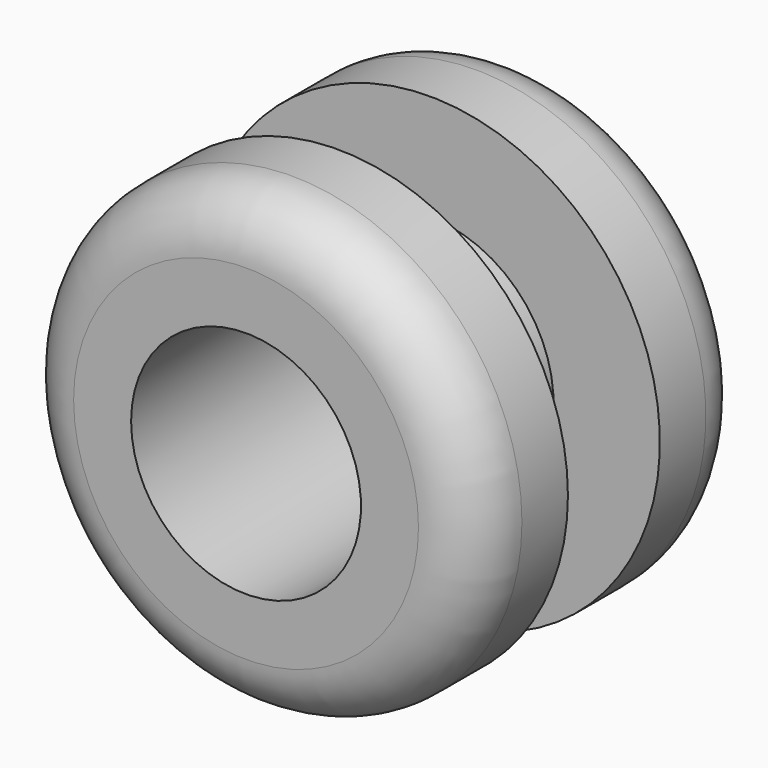
from build123d import *

# Parameters (mm, degrees)
F0_R     = 4
F1_DEPTH = 2
F2_R     = 1
F3_R     = 2.15
F4_DEPTH = 2
F5_R     = 4
F6_DEPTH = 2
F7_R     = 1
F8_R     = 2
F9_DEPTH = 6


with BuildPart() as f1:
    # F0 (on Front) → F1 (new body)
    with BuildSketch(Plane.XZ):
        Circle(F0_R)
    extrude(amount=F1_DEPTH)

    # F2
    f2_edges = [f1.edges().sort_by_distance(p)[0] for p in [
        (-4, -2, 0),
    ]]
    fillet(f2_edges, radius=F2_R)

    # F3 (on face) → F4 (join)
    with BuildSketch(Plane(origin=(0, 0, 0), x_dir=(-1, 0, 0), z_dir=(0, 1, 0))):
        Circle(F3_R)
    extrude(amount=F4_DEPTH)

    # F5 (on face) → F6 (join)
    with BuildSketch(Plane(origin=(0, 2, 0), x_dir=(-1, 0, 0), z_dir=(0, 1, 0))):
        Circle(F5_R)
    extrude(amount=F6_DEPTH)

    # F7
    f7_edges = [f1.edges().sort_by_distance(p)[0] for p in [
        (4, 4, 0),
    ]]
    fillet(f7_edges, radius=F7_R)

    # F8 (on face) → F9 (cut)
    with BuildSketch(Plane(origin=(0, 4, 0), x_dir=(-1, 0, 0), z_dir=(0, 1, 0))):
        Circle(F8_R)
    extrude(amount=-F9_DEPTH, mode=Mode.SUBTRACT)


solid = f1.part
